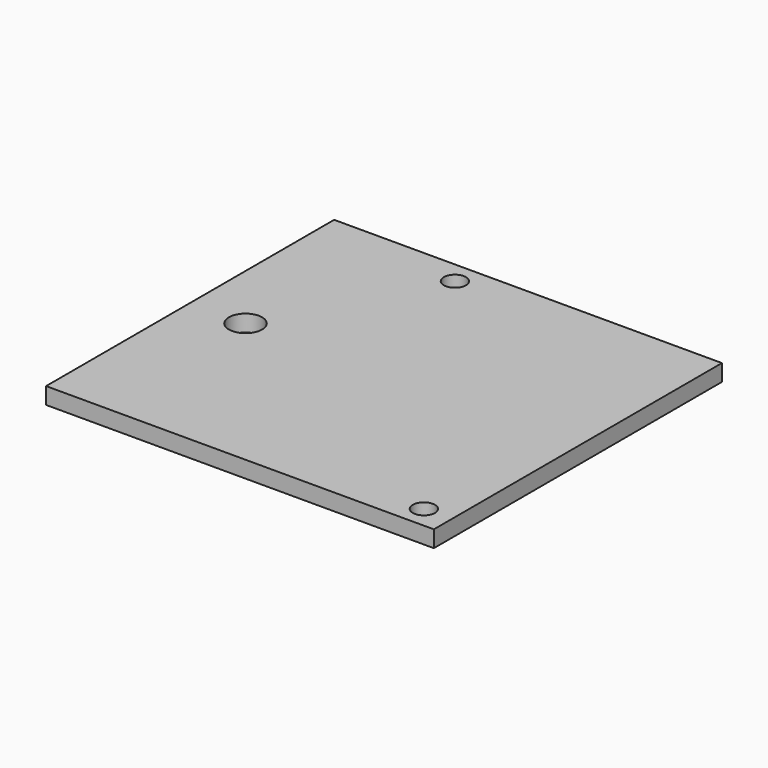
from build123d import *

# Parameters (mm, degrees)
F0_W     = 70
F0_H     = 65
F0_R     = 2
F0_R_2   = 3
F1_DEPTH = 3


with BuildPart() as f1:
    # F0 (on Top) → F1 (new body)
    with BuildSketch(Plane.XY):
        Rectangle(F0_W, F0_H)
        with Locations((30, -28.5)):
            Circle(F0_R, mode=Mode.SUBTRACT)
        with Locations((-25, 0)):
            Circle(F0_R_2, mode=Mode.SUBTRACT)
        with Locations((-10, 28.5)):
            Circle(F0_R, mode=Mode.SUBTRACT)
    extrude(amount=F1_DEPTH)


solid = f1.part
